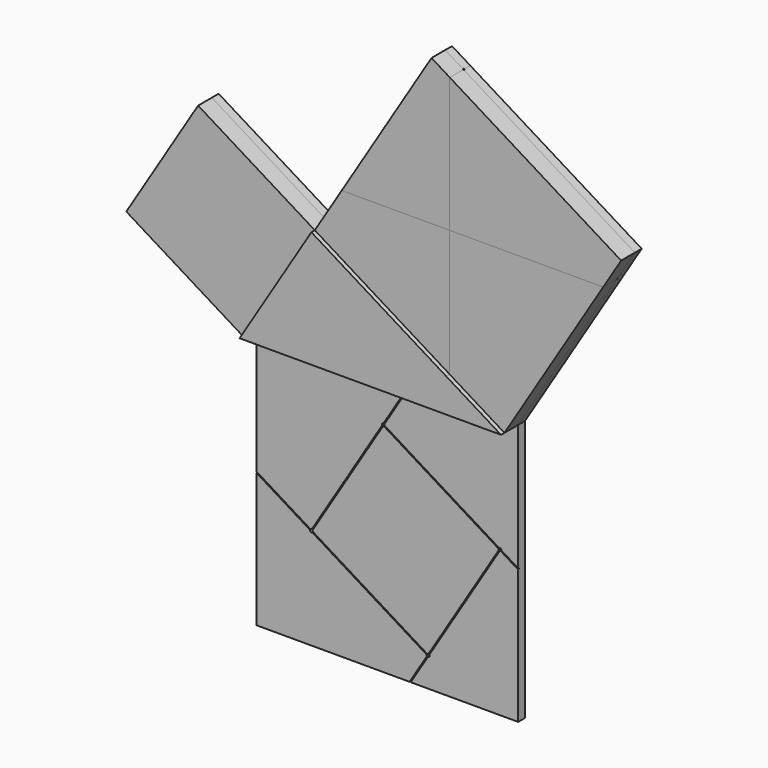
from build123d import *

# Parameters (mm, degrees)
F1_DEPTH = 6.35
F2_DEPTH = 15.875
F3_DEPTH = 12.7
F4_DEPTH = 12.7
F5_DEPTH = 12.7
F6_DEPTH = 12.7
F7_DEPTH = 12.7
F8_W     = 0.762
F8_H     = 0.762
F9_DEPTH = 0.762
F10_D    = 2.032


with BuildPart() as f1:
    # F0 (on Front) → F1 (new body)
    with BuildSketch(Plane.XZ):
        Polygon((100.0485607549, -61.5683450799), (0, 0), (-53.2482984475, -86.5284849772), (60.5283392509, -86.5284849772), (140.6087880879, -86.5284849772), align=None)
        Polygon((19.9681119178, 32.4481818664), (0, 0), (100.0485607549, -61.5683450799), (100.0485607549, 32.4481818664), align=None)
        Polygon((100.0485607549, 32.4481818664), (100.0485607549, -61.5683450799), (140.6087880879, -86.5284849772), (213.8251984532, 32.4481818664), align=None)
        Polygon((-53.2482984475, -86.5284849772), (0, 0), (-86.5284849772, 53.2482984475), align=None)
        Polygon((60.5283392509, -86.5284849772), (-53.2482984475, -86.5284849772), (-53.2482984475, -180.5450119235), (-12.6880711144, -205.5051518208), (40.5602273331, -118.9766668436), align=None)
        Polygon((-12.6880711144, -205.5051518208), (-53.2482984475, -180.5450119235), (-53.2482984475, -280.3855715126), (60.5283392509, -280.3855715126), (73.8404138627, -258.7534502683), align=None)
        Polygon((86.5284849772, 140.6087880879), (19.9681119178, 32.4481818664), (100.0485607549, 32.4481818664), (100.0485607549, 132.2887414555), align=None)
        Polygon((100.0485607549, 132.2887414555), (100.0485607549, 32.4481818664), (213.8251984532, 32.4481818664), (227.1372730651, 54.0803031107), align=None)
        Polygon((-139.7767834247, -33.2801865297), (-53.2482984475, -86.5284849772), (-86.5284849772, 53.2482984475), align=None)
        Polygon((140.6087880879, -86.5284849772), (60.5283392509, -86.5284849772), (40.5602273331, -118.9766668436), (127.0887123102, -172.2249652911), (140.6087880879, -180.5450119235), align=None)
        Polygon((127.0887123102, -172.2249652911), (40.5602273331, -118.9766668436), (-12.6880711144, -205.5051518208), (73.8404138627, -258.7534502683), align=None)
        Polygon((140.6087880879, -280.3855715126), (140.6087880879, -180.5450119235), (127.0887123102, -172.2249652911), (73.8404138627, -258.7534502683), (60.5283392509, -280.3855715126), align=None)
    extrude(amount=-F1_DEPTH)

    # F8 (on face) → F9 (cut)
    with BuildSketch(Plane.XZ):
        with BuildLine():
            ThreePointArc((-0.1996811192, -0.3244818187), (-0.3706391678, -0.0882474209), (-0.3244818187, 0.1996811192))
            Line((-0.3244818187, 0.1996811192), (-53.5727802662, -86.328803858))
            ThreePointArc((-53.5727802662, -86.328803858), (-53.4341512032, -86.1958894974), (-53.2482984475, -86.1474849772))
            Line((-53.2482984475, -86.1474849772), (-52.5664744016, -86.1474849772))
            Line((-52.5664744016, -86.1474849772), (0.1248006995, -0.5241629378))
            Line((0.1248006995, -0.5241629378), (-0.1996811192, -0.3244818187))
        make_face()
        with BuildLine():
            ThreePointArc((0.1996811192, 0.3244818187), (-0.0882474209, 0.3706391678), (-0.3244818187, 0.1996811192))
            ThreePointArc((-0.3244818187, 0.1996811192), (-0.3706391678, -0.0882474209), (-0.1996811192, -0.3244818187))
            Line((-0.1996811192, -0.3244818187), (0.1248006995, -0.5241629378))
            Line((0.1248006995, -0.5241629378), (0.3244818187, -0.1996811192))
            ThreePointArc((0.3244818187, -0.1996811192), (0.3706391678, 0.0882474209), (0.1996811192, 0.3244818187))
        make_face()
        with BuildLine():
            Line((99.6675607549, -60.8865210341), (0.1996811192, 0.3244818187))
            ThreePointArc((0.1996811192, 0.3244818187), (0.3706391678, 0.0882474209), (0.3244818187, -0.1996811192))
            Line((0.3244818187, -0.1996811192), (0.1248006995, -0.5241629378))
            Line((0.1248006995, -0.5241629378), (99.8488795797, -61.8928268641))
            ThreePointArc((99.8488795797, -61.8928268641), (99.715965259, -61.7541978069), (99.6675607549, -61.5683450799))
            Line((99.6675607549, -61.5683450799), (99.6675607549, -60.8865210341))
        make_face()
        with BuildLine():
            ThreePointArc((-53.2482984475, -86.1474849772), (-53.4341512032, -86.1958894974), (-53.5727802662, -86.328803858))
            ThreePointArc((-53.5727802662, -86.328803858), (-53.5808939273, -86.7143377329), (-53.2482984475, -86.9094849772))
            ThreePointArc((-53.2482984475, -86.9094849772), (-53.0624456918, -86.861080457), (-52.9238166288, -86.7281660964))
            Line((-52.9238166288, -86.7281660964), (-52.5664744016, -86.1474849772))
            Line((-52.5664744016, -86.1474849772), (-53.2482984475, -86.1474849772))
        make_face()
        Polygon((99.6675607549, 32.0671818664), (99.6675607549, -60.8865210341), (100.4295607549, -61.355444111), (100.4295607549, 32.0671818664), align=None)
        with BuildLine():
            Line((100.4295607549, -61.355444111), (99.6675607549, -60.8865210341))
            Line((99.6675607549, -60.8865210341), (99.6675607549, -61.5683450799))
            ThreePointArc((99.6675607549, -61.5683450799), (99.715965259, -61.7541978069), (99.8488795797, -61.8928268641))
            ThreePointArc((99.8488795797, -61.8928268641), (100.2344134819, -61.9009405758), (100.4295607549, -61.5683450799))
            Line((100.4295607549, -61.5683450799), (100.4295607549, -61.355444111))
        make_face()
        with BuildLine():
            ThreePointArc((-52.9238166288, -86.7281660964), (-53.0624456918, -86.861080457), (-53.2482984475, -86.9094849772))
            Line((-53.2482984475, -86.9094849772), (59.846515205, -86.9094849772))
            Line((59.846515205, -86.9094849772), (60.2038574322, -86.328803858))
            ThreePointArc((60.2038574322, -86.328803858), (60.3424864952, -86.1958894974), (60.5283392509, -86.1474849772))
            Line((60.5283392509, -86.1474849772), (-52.5664744016, -86.1474849772))
            Line((-52.5664744016, -86.1474849772), (-52.9238166288, -86.7281660964))
        make_face()
        with BuildLine():
            Line((140.8084692071, -86.2040031585), (100.4295607549, -61.355444111))
            Line((100.4295607549, -61.355444111), (100.4295607549, -61.5683450799))
            ThreePointArc((100.4295607549, -61.5683450799), (100.2344134819, -61.9009405758), (99.8488795797, -61.8928268641))
            Line((99.8488795797, -61.8928268641), (139.2626990134, -86.1474849772))
            Line((139.2626990134, -86.1474849772), (140.6087880879, -86.1474849772))
            ThreePointArc((140.6087880879, -86.1474849772), (140.7125508633, -86.1618867142), (140.8084692071, -86.2040031585))
        make_face()
        with BuildLine():
            Line((19.9681119178, 32.0671818664), (99.6675607549, 32.0671818664))
            Line((99.6675607549, 32.0671818664), (99.6675607549, 32.8291818664))
            Line((99.6675607549, 32.8291818664), (19.9681119178, 32.8291818664))
            ThreePointArc((19.9681119178, 32.8291818664), (19.5871119178, 32.4481818664), (19.9681119178, 32.0671818664))
        make_face()
        with Locations((100.0485607549, 32.4481818664)):
            Rectangle(F8_W, F8_H)
        with BuildLine():
            Line((60.2038574322, -86.328803858), (59.846515205, -86.9094849772))
            Line((59.846515205, -86.9094849772), (60.7412402198, -86.9094849772))
            Line((60.7412402198, -86.9094849772), (60.8528210695, -86.7281660964))
            ThreePointArc((60.8528210695, -86.7281660964), (60.8609347307, -86.3426322215), (60.5283392509, -86.1474849772))
            ThreePointArc((60.5283392509, -86.1474849772), (60.3424864952, -86.1958894974), (60.2038574322, -86.328803858))
        make_face()
        with BuildLine():
            Line((60.7412402198, -86.9094849772), (59.846515205, -86.9094849772))
            Line((59.846515205, -86.9094849772), (40.2357454511, -118.7769858272))
            ThreePointArc((40.2357454511, -118.7769858272), (40.4719798534, -118.6060276898), (40.7599084522, -118.652185025))
            Line((40.7599084522, -118.652185025), (41.0843902709, -118.8518661441))
            Line((41.0843902709, -118.8518661441), (60.7412402198, -86.9094849772))
        make_face()
        with BuildLine():
            ThreePointArc((140.6087880879, -86.9094849772), (140.9753863509, -86.6322477525), (140.8084692071, -86.2040031585))
            ThreePointArc((140.8084692071, -86.2040031585), (140.7125508633, -86.1618867142), (140.6087880879, -86.1474849772))
            Line((140.6087880879, -86.1474849772), (139.2626990134, -86.1474849772))
            Line((139.2626990134, -86.1474849772), (140.4091069687, -86.8529667958))
            ThreePointArc((140.4091069687, -86.8529667958), (140.5050253126, -86.8950832402), (140.6087880879, -86.9094849772))
        make_face()
        with BuildLine():
            Line((100.4295607549, 32.8291818664), (100.4295607549, 32.0671818664))
            Line((100.4295607549, 32.0671818664), (213.8251984532, 32.0671818664))
            ThreePointArc((213.8251984532, 32.0671818664), (214.2061984532, 32.4481818664), (213.8251984532, 32.8291818664))
            Line((213.8251984532, 32.8291818664), (100.4295607549, 32.8291818664))
        make_face()
        with BuildLine():
            Line((99.6675607549, 132.2887414555), (99.6675607549, 32.8291818664))
            Line((99.6675607549, 32.8291818664), (100.4295607549, 32.8291818664))
            Line((100.4295607549, 32.8291818664), (100.4295607549, 132.2887414555))
            ThreePointArc((100.4295607549, 132.2887414555), (100.0485607549, 132.6697414555), (99.6675607549, 132.2887414555))
        make_face()
        with BuildLine():
            Line((60.8528210695, -86.7281660964), (60.7412402198, -86.9094849772))
            Line((60.7412402198, -86.9094849772), (140.6087880879, -86.9094849772))
            ThreePointArc((140.6087880879, -86.9094849772), (140.5050253126, -86.8950832402), (140.4091069687, -86.8529667958))
            Line((140.4091069687, -86.8529667958), (139.2626990134, -86.1474849772))
            Line((139.2626990134, -86.1474849772), (60.5283392509, -86.1474849772))
            ThreePointArc((60.5283392509, -86.1474849772), (60.8609347307, -86.3426322215), (60.8528210695, -86.7281660964))
        make_face()
        with BuildLine():
            ThreePointArc((40.3605462139, -119.3011486623), (40.1895881792, -119.0649143232), (40.2357454511, -118.7769858272))
            Line((40.2357454511, -118.7769858272), (-12.8128718139, -204.980988883))
            Line((-12.8128718139, -204.980988883), (-12.1639081766, -205.3803511213))
            Line((-12.1639081766, -205.3803511213), (40.6850280325, -119.5008297815))
            Line((40.6850280325, -119.5008297815), (40.3605462139, -119.3011486623))
        make_face()
        with BuildLine():
            ThreePointArc((40.7599084522, -118.652185025), (40.4719798534, -118.6060276898), (40.2357454511, -118.7769858272))
            ThreePointArc((40.2357454511, -118.7769858272), (40.1895881792, -119.0649143232), (40.3605462139, -119.3011486623))
            Line((40.3605462139, -119.3011486623), (40.6850280325, -119.5008297815))
            Line((40.6850280325, -119.5008297815), (41.0843902709, -118.8518661441))
            Line((41.0843902709, -118.8518661441), (40.7599084522, -118.652185025))
        make_face()
        with BuildLine():
            Line((127.288393621, -171.9004835903), (41.0843902709, -118.8518661441))
            Line((41.0843902709, -118.8518661441), (40.6850280325, -119.5008297815))
            Line((40.6850280325, -119.5008297815), (126.5645493724, -172.3497659906))
            Line((126.5645493724, -172.3497659906), (126.7642304916, -172.0252841719))
            ThreePointArc((126.7642304916, -172.0252841719), (127.0004649987, -171.8543260973), (127.288393621, -171.9004835903))
        make_face()
        with BuildLine():
            Line((-12.1639081766, -205.3803511213), (-12.8128718139, -204.980988883))
            Line((-12.8128718139, -204.980988883), (-13.0125529331, -205.3054707016))
            ThreePointArc((-13.0125529331, -205.3054707016), (-13.0587102847, -205.5933992313), (-12.8877522518, -205.8296336283))
            ThreePointArc((-12.8877522518, -205.8296336283), (-12.5998237039, -205.8757909911), (-12.3635892958, -205.70483294))
            Line((-12.3635892958, -205.70483294), (-12.1639081766, -205.3803511213))
        make_face()
        with BuildLine():
            Line((-13.0125529331, -205.3054707016), (-12.8128718139, -204.980988883))
            Line((-12.8128718139, -204.980988883), (-53.0486173283, -180.2205301049))
            ThreePointArc((-53.0486173283, -180.2205301049), (-53.5727802662, -180.3453308044), (-53.4479795667, -180.8694937422))
            Line((-53.4479795667, -180.8694937422), (-12.8877522518, -205.8296336283))
            ThreePointArc((-12.8877522518, -205.8296336283), (-13.0587102847, -205.5933992313), (-13.0125529331, -205.3054707016))
        make_face()
        with BuildLine():
            ThreePointArc((127.4131941289, -172.4246464103), (127.4593515041, -172.1367179796), (127.288393621, -171.9004835903))
            ThreePointArc((127.288393621, -171.9004835903), (127.0004649987, -171.8543260973), (126.7642304916, -172.0252841719))
            Line((126.7642304916, -172.0252841719), (126.5645493724, -172.3497659906))
            Line((126.5645493724, -172.3497659906), (127.2135130097, -172.749128229))
            Line((127.2135130097, -172.749128229), (127.4131941289, -172.4246464103))
        make_face()
        with BuildLine():
            Line((140.8084692071, -180.2205301049), (127.288393621, -171.9004835903))
            ThreePointArc((127.288393621, -171.9004835903), (127.4593515041, -172.1367179796), (127.4131941289, -172.4246464103))
            Line((127.4131941289, -172.4246464103), (127.2135130097, -172.749128229))
            Line((127.2135130097, -172.749128229), (140.4091069687, -180.8694937422))
            ThreePointArc((140.4091069687, -180.8694937422), (140.9332699066, -180.7446930427), (140.8084692071, -180.2205301049))
        make_face()
        with BuildLine():
            Line((73.7156131633, -258.2292873305), (-12.1639081766, -205.3803511213))
            Line((-12.1639081766, -205.3803511213), (-12.3635892958, -205.70483294))
            ThreePointArc((-12.3635892958, -205.70483294), (-12.5998237039, -205.8757909911), (-12.8877522518, -205.8296336283))
            Line((-12.8877522518, -205.8296336283), (73.3162509249, -258.8782509678))
            Line((73.3162509249, -258.8782509678), (73.7156131633, -258.2292873305))
        make_face()
        with BuildLine():
            Line((127.2135130097, -172.749128229), (126.5645493724, -172.3497659906))
            Line((126.5645493724, -172.3497659906), (73.7156131633, -258.2292873305))
            Line((73.7156131633, -258.2292873305), (74.0400949819, -258.4289684496))
            ThreePointArc((74.0400949819, -258.4289684496), (74.2110530292, -258.6652028416), (74.1648956876, -258.9531313773))
            Line((74.1648956876, -258.9531313773), (127.2135130097, -172.749128229))
        make_face()
        with BuildLine():
            Line((74.0400949819, -258.4289684496), (73.7156131633, -258.2292873305))
            Line((73.7156131633, -258.2292873305), (73.3162509249, -258.8782509678))
            Line((73.3162509249, -258.8782509678), (73.6407327436, -259.077932087))
            ThreePointArc((73.6407327436, -259.077932087), (73.9286612894, -259.1240894347), (74.1648956876, -258.9531313773))
            ThreePointArc((74.1648956876, -258.9531313773), (74.2110530292, -258.6652028416), (74.0400949819, -258.4289684496))
        make_face()
        with BuildLine():
            Line((73.6407327436, -259.077932087), (73.3162509249, -258.8782509678))
            Line((73.3162509249, -258.8782509678), (60.2038574322, -280.1858903934))
            ThreePointArc((60.2038574322, -280.1858903934), (60.3286581317, -280.7100533313), (60.8528210695, -280.5852526318))
            Line((60.8528210695, -280.5852526318), (74.1648956876, -258.9531313773))
            ThreePointArc((74.1648956876, -258.9531313773), (73.9286612894, -259.1240894347), (73.6407327436, -259.077932087))
        make_face()
    extrude(amount=-F9_DEPTH, mode=Mode.SUBTRACT)

    # F10 (through all)
    with Locations(Plane.XZ):
        with Locations((40.5602273331, -118.9766668436), (127.0887123102, -172.2249652911), (73.8404138627, -258.7534502683), (-12.6880711144, -205.5051518208)):
            Hole(F10_D / 2)


with BuildPart() as f2:
    # F0 (on Front) → F2 (new body)
    with BuildSketch(Plane.XZ):
        Polygon((100.0485607549, -61.5683450799), (0, 0), (-53.2482984475, -86.5284849772), (60.5283392509, -86.5284849772), (140.6087880879, -86.5284849772), align=None)
    extrude(amount=F2_DEPTH)


with BuildPart() as f3:
    # F0 (on Front) → F3 (new body)
    with BuildSketch(Plane.XZ):
        Polygon((100.0485607549, 132.2887414555), (100.0485607549, 32.4481818664), (213.8251984532, 32.4481818664), (227.1372730651, 54.0803031107), align=None)
    extrude(amount=F3_DEPTH)


with BuildPart() as f4:
    # F0 (on Front) → F4 (new body)
    with BuildSketch(Plane.XZ):
        Polygon((86.5284849772, 140.6087880879), (19.9681119178, 32.4481818664), (100.0485607549, 32.4481818664), (100.0485607549, 132.2887414555), align=None)
    extrude(amount=F4_DEPTH)


with BuildPart() as f5:
    # F0 (on Front) → F5 (new body)
    with BuildSketch(Plane.XZ):
        Polygon((100.0485607549, 32.4481818664), (100.0485607549, -61.5683450799), (140.6087880879, -86.5284849772), (213.8251984532, 32.4481818664), align=None)
    extrude(amount=F5_DEPTH)


with BuildPart() as f6:
    # F0 (on Front) → F6 (new body)
    with BuildSketch(Plane.XZ):
        Polygon((19.9681119178, 32.4481818664), (0, 0), (100.0485607549, -61.5683450799), (100.0485607549, 32.4481818664), align=None)
    extrude(amount=F6_DEPTH)


with BuildPart() as f7:
    # F0 (on Front) → F7 (new body)
    with BuildSketch(Plane.XZ):
        Polygon((-53.2482984475, -86.5284849772), (0, 0), (-86.5284849772, 53.2482984475), align=None)
        Polygon((-139.7767834247, -33.2801865297), (-53.2482984475, -86.5284849772), (-86.5284849772, 53.2482984475), align=None)
    extrude(amount=F7_DEPTH)


solid = Compound([f1.part, f2.part, f3.part, f4.part, f5.part, f6.part, f7.part])
